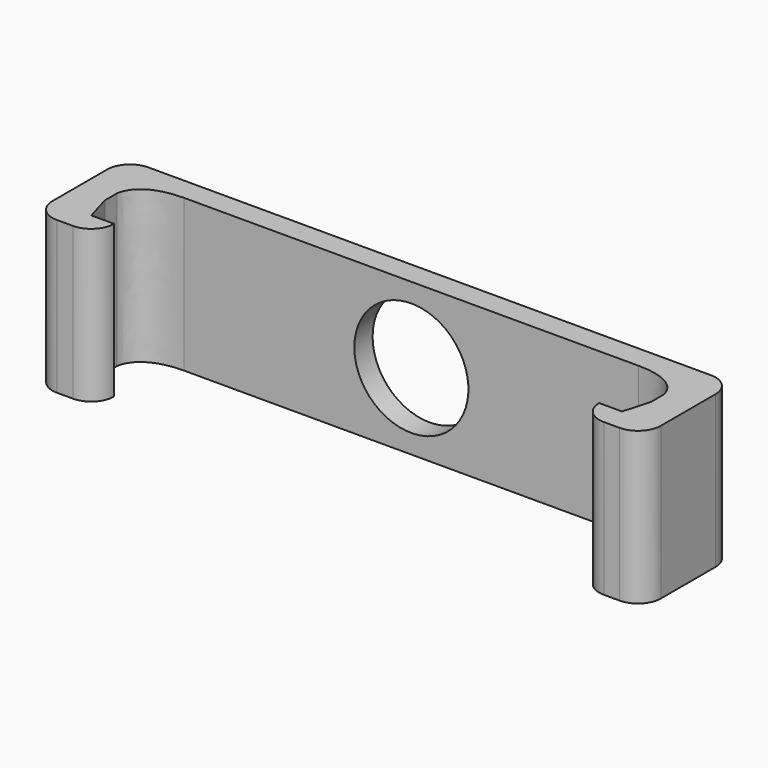
from build123d import *

# Parameters (mm, degrees)
F1_DEPTH = 20
F2_R     = 7.5
F3_DEPTH = 25


with BuildPart() as f1:
    # F0 (on Top) → F1 (new body)
    with BuildSketch(Plane.XY):
        with BuildLine():
            ThreePointArc((40, 4.5), (39.12132, 6.62132), (37, 7.5))
            Line((37, 7.5), (-37, 7.5))
            ThreePointArc((-37, 7.5), (-39.12132, 6.62132), (-40, 4.5))
            Line((-40, 4.5), (-40, -4.5))
            ThreePointArc((-40, -4.5), (-39.12132, -6.62132), (-37, -7.5))
            Line((-37, -7.5), (-34.9, -7.5))
            ThreePointArc((-34.9, -7.5), (-32.77868, -6.62132), (-31.9, -4.5))
            Line((-31.9, -4.5), (-34.9, -4.5))
            Line((-34.9, -4.5), (-35.9, -1))
            Line((-35.9, -1), (-35.9, 1))
            add(Edge.make_bspline(
                [(-29.9, 4.5), (-33.854954, 4.5), (-35.647385, 2.755063), (-35.9, 1)],
                knots=[0, 0, 0, 0, 6.946222, 6.946222, 6.946222, 6.946222], degree=3))
            Line((-29.9, 4.5), (29.9, 4.5))
            add(Edge.make_bspline(
                [(29.9, 4.5), (33.854954, 4.5), (35.647385, 2.755063), (35.9, 1)],
                knots=[0, 0, 0, 0, 6.946222, 6.946222, 6.946222, 6.946222], degree=3))
            Line((35.9, 1), (35.9, -1))
            Line((35.9, -1), (34.9, -4.5))
            Line((34.9, -4.5), (31.9, -4.5))
            ThreePointArc((31.9, -4.5), (32.77868, -6.62132), (34.9, -7.5))
            Line((34.9, -7.5), (37, -7.5))
            ThreePointArc((37, -7.5), (39.12132, -6.62132), (40, -4.5))
            Line((40, -4.5), (40, 4.5))
        make_face()
    extrude(amount=F1_DEPTH)

    # F2 (on face) → F3 (cut)
    with BuildSketch(Plane(origin=(0, 7.5, 0), x_dir=(-1, 0, 0), z_dir=(0, 1, 0))):
        with Locations((0, 10)):
            Circle(F2_R)
    extrude(amount=-F3_DEPTH, mode=Mode.SUBTRACT)


solid = f1.part
